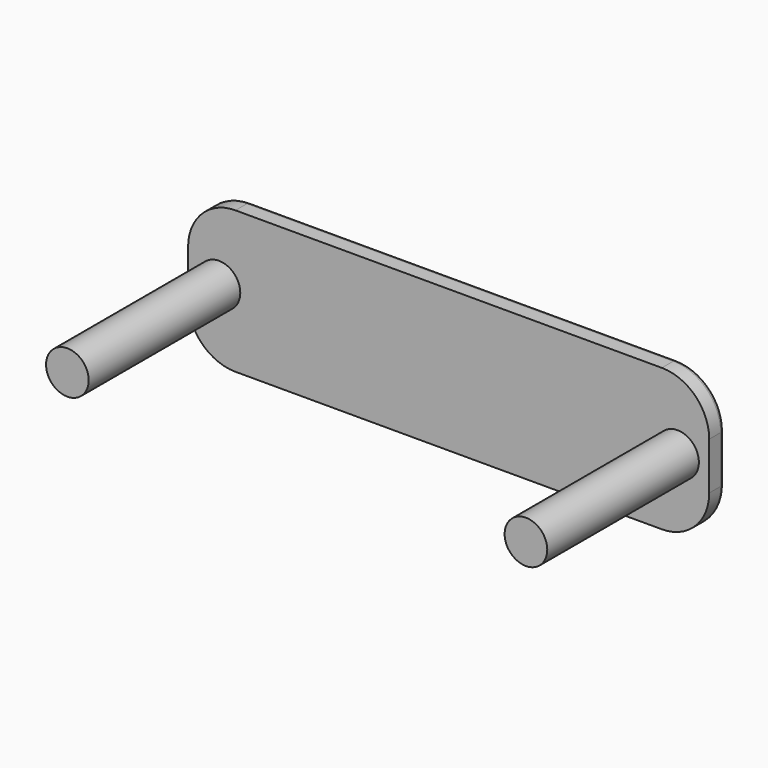
from build123d import *

# Parameters (mm, degrees)
F1_DEPTH = 2
F2_R     = 0.5
F3_R     = 2.25
F4_DEPTH = 20


with BuildPart() as f1:
    # F0 (on Front) → F1 (new body)
    with BuildSketch(Plane.XZ):
        with BuildLine():
            Line((22.5, 7.5), (-22.5, 7.5))
            ThreePointArc((-22.5, 7.5), (-26.035534, 6.035534), (-27.5, 2.5))
            Line((-27.5, 2.5), (-27.5, -2.5))
            ThreePointArc((-27.5, -2.5), (-26.035534, -6.035534), (-22.5, -7.5))
            Line((-22.5, -7.5), (22.5, -7.5))
            ThreePointArc((22.5, -7.5), (26.035534, -6.035534), (27.5, -2.5))
            Line((27.5, -2.5), (27.5, 2.5))
            ThreePointArc((27.5, 2.5), (26.035534, 6.035534), (22.5, 7.5))
        make_face()
    extrude(amount=-F1_DEPTH)

    # F2
    f2_edges = [f1.edges().sort_by_distance(p)[0] for p in [
        (0, 2, 7.5),
        (-26.035534, 2, 6.035534),
        (-27.5, 2, 0),
        (-26.035534, 2, -6.035534),
        (0, 2, -7.5),
        (26.035534, 2, -6.035534),
        (27.5, 2, 0),
        (26.035534, 2, 6.035534),
    ]]
    fillet(f2_edges, radius=F2_R)

    # F3 (on face) → F4 (join)
    with BuildSketch(Plane.XZ):
        with Locations((24.155941, 0)):
            Circle(F3_R)
        with Locations((-24.244059, 0)):
            Circle(F3_R)
    extrude(amount=F4_DEPTH)


solid = f1.part
